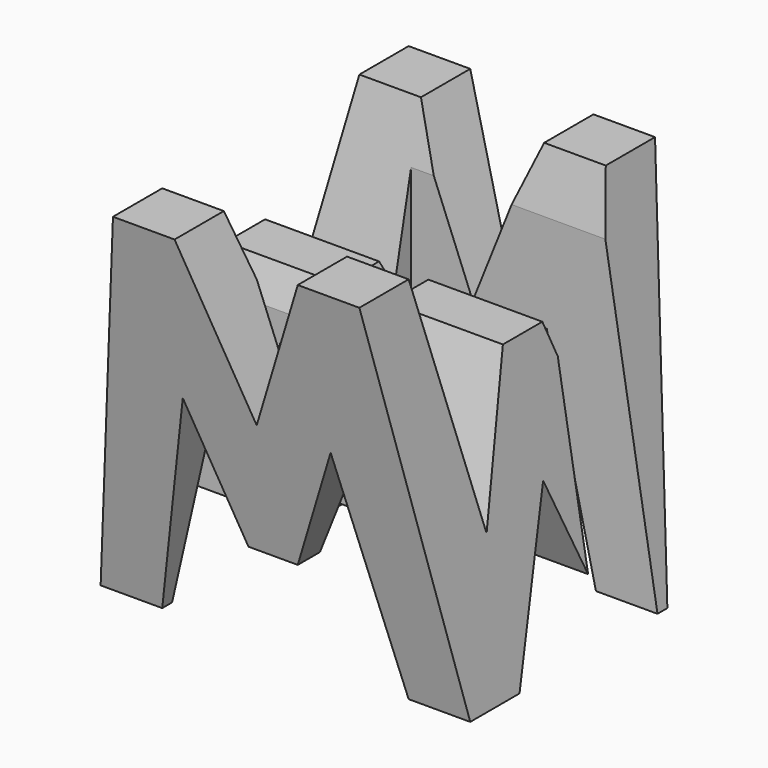
from build123d import *

# Parameters (mm, degrees)
F0_W      = 38.1
F0_H      = 38.1
F1_DEPTH  = 38.1
F6_DEPTH  = 38.1
F8_DEPTH  = 38.1
F9_W      = 25.4
F9_H      = 7.62
F10_DEPTH = 38.1


with BuildPart() as f1:
    # F0 (on Front) → F1 (new body)
    with BuildSketch(Plane.XZ):
        with Locations((19.05, 19.05)):
            Rectangle(F0_W, F0_H)
    extrude(amount=F1_DEPTH)

    # F5 (on offset) → F6 (cut)
    with BuildSketch(Plane.YZ.offset(38.1)):
        Polygon((-31.75, 0), (-38.1, 38.1), (-38.1, 0), align=None)
        Polygon((-11.43, 14.709544), (-6.35, 38.1), (-31.75, 38.1), (-26.67, 14.274348), (-21.59, 28.575), (-16.51, 28.575), align=None)
        Polygon((-6.35, 0), (0, 0), (0, 38.1), align=None)
        Polygon((-25.4, 0), (-12.7, 0), (-19.05, 15.875), align=None)
    extrude(amount=-F6_DEPTH, mode=Mode.SUBTRACT)

    # F7 (on offset) → F8 (cut)
    with BuildSketch(Plane.XZ.offset(38.1)):
        Polygon((0, 38.1), (0, 0), (6.35, 38.1), align=None)
        Polygon((25.4, 38.1), (12.7, 38.1), (19.05, 22.225), align=None)
        Polygon((31.75, 38.1), (38.1, 0), (38.1, 38.1), align=None)
        Polygon((11.43, 22.225), (6.35, 0), (31.75, 0), (26.67, 22.225), (21.59, 9.525), (16.51, 9.525), align=None)
    extrude(amount=-F8_DEPTH, mode=Mode.SUBTRACT)

    # F9 (on offset) → F10 (cut)
    with BuildSketch(Plane.XY.offset(38.1)):
        with Locations((25.4, -11.43)):
            Rectangle(F9_W, F9_H)
        with Locations((12.7, -26.67)):
            Rectangle(F9_W, F9_H)
    extrude(amount=-F10_DEPTH, mode=Mode.SUBTRACT)


solid = f1.part
